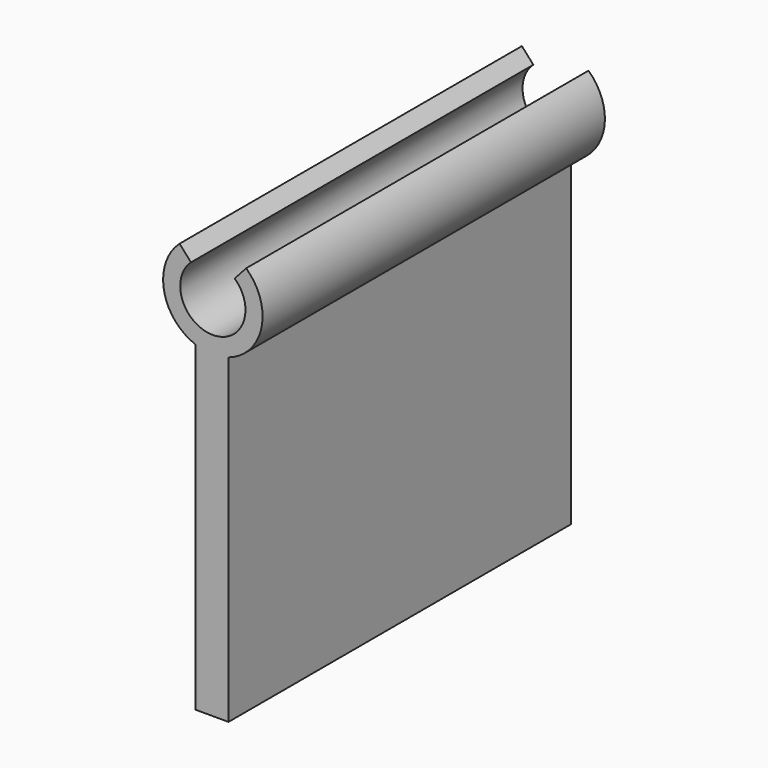
from build123d import *

# Parameters (mm, degrees)
F0_R     = 1.525
F1_DEPTH = 20
F3_DEPTH = 25


with BuildPart() as f1:
    # F0 (on Front) → F1 (new body)
    with BuildSketch(Plane.XZ):
        with BuildLine():
            Line((0.732745, -17.206515), (0.732745, -2.206515))
            ThreePointArc((0.732745, -2.206515), (0.044522, 2.324574), (-0.816697, -2.17684))
            Line((-0.816697, -2.17684), (-0.816697, -17.206515))
            Line((-0.816697, -17.206515), (0.732745, -17.206515))
        make_face()
        Circle(F0_R, mode=Mode.SUBTRACT)
    extrude(amount=F1_DEPTH)

    # F2 (on face) → F3 (cut)
    with BuildSketch(Plane.XZ.offset(20)):
        Polygon((0, 5.453305), (-4.5, 5), (0, 0), (4.5, 5), align=None)
    extrude(amount=-F3_DEPTH, mode=Mode.SUBTRACT)


solid = f1.part
